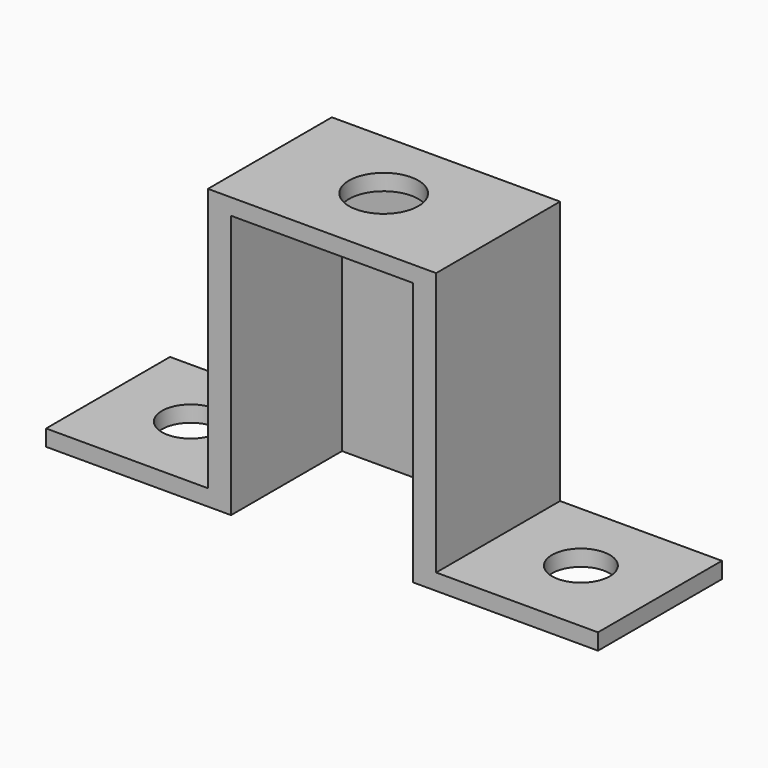
from build123d import *

# Parameters (mm, degrees)
F0_W     = 17.78
F0_H     = 1.778
F1_DEPTH = 17.018
F0_W_2   = 19.9898
F0_H_2   = 28.956
F2_DEPTH = 1.778
F5_R     = 3.175
F4_R     = 3.175
F3_R     = 3.81
F6_DEPTH = 25.4


with BuildPart() as f1:
    # F0 (on Front) → F1 (new body)
    with BuildSketch(Plane.XZ):
        Polygon((-12.296648, -10.522948), (-12.296648, -12.300948), (-9.756648, -12.300948), (-9.756648, 16.655052), (10.233152, 16.655052), (10.233152, -12.300948), (12.773152, -12.300948), (12.773152, -10.522948), (12.773152, 18.433052), (-12.296648, 18.433052), align=None)
        with Locations((-21.186648, -11.411948)):
            Rectangle(F0_W, F0_H)
        with Locations((21.663152, -11.411948)):
            Rectangle(F0_W, F0_H)
    extrude(amount=F1_DEPTH)

    # F0 (on Front) → F2 (join)
    with BuildSketch(Plane.XZ):
        with Locations((0.238252, 2.177052)):
            Rectangle(F0_W_2, F0_H_2)
    extrude(amount=F2_DEPTH)

    # F5 (on face) + F4 (on face) + F3 (on face) → F6 (cut)
    with BuildSketch(Plane.XY.offset(-10.522948)):
        with Locations((21.663152, -8.255)):
            Circle(F5_R)
    with BuildSketch(Plane.XY.offset(-10.522948)):
        with Locations((-21.186648, -8.255)):
            Circle(F4_R)
    with BuildSketch(Plane.XY.offset(18.433052)):
        with Locations((0, -8.251561)):
            Circle(F3_R)
    extrude(amount=-F6_DEPTH, mode=Mode.SUBTRACT)


solid = f1.part
